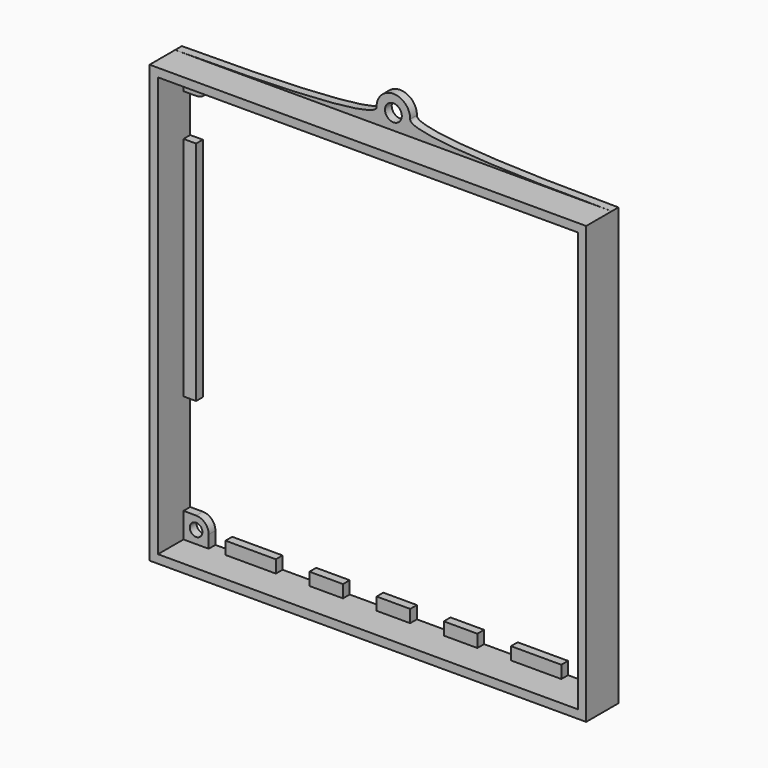
from build123d import *

# Parameters (mm, degrees)
F0_W     = 104
F0_H     = 104
F0_W_2   = 100
F0_H_2   = 100
F1_DEPTH = 7.6
F2_R     = 1.5
F2_R_2   = 2
F3_DEPTH = 2


with BuildPart() as f1:
    # F0 (on Front) → F1 (new body)
    with BuildSketch(Plane.XZ):
        Rectangle(F0_W, F0_H)
        Rectangle(F0_W_2, F0_H_2, mode=Mode.SUBTRACT)
    extrude(amount=F1_DEPTH)

    # F2 (on Front) → F3 (join)
    with BuildSketch(Plane.XZ):
        with BuildLine():
            Line((52, -52), (52, 52))
            add(Edge.make_bspline(
                [(52, 52), (30.992258, 52), (3.351394, 52.66514), (4, 55.733442)],
                knots=[0, 0, 0, 0, 48.144975, 48.144975, 48.144975, 48.144975], degree=3))
            ThreePointArc((4, 55.733442), (0, 59.733442), (-4, 55.733442))
            add(Edge.make_bspline(
                [(-52, 52), (-30.992258, 52), (-3.351394, 52.66514), (-4, 55.733442)],
                knots=[0, 0, 0, 0, 48.144975, 48.144975, 48.144975, 48.144975], degree=3))
            Line((-52, 52), (-52, -52))
            Line((-52, -52), (52, -52))
        make_face()
        with Locations((-47, -47)):
            Circle(F2_R, mode=Mode.SUBTRACT)
        with Locations((47, -47)):
            Circle(F2_R, mode=Mode.SUBTRACT)
        with BuildLine():
            ThreePointArc((44, 47), (44.87868, 44.87868), (47, 44))
            Line((47, 44), (50, 44))
            Line((50, 44), (50, 34))
            Line((50, 34), (47, 34))
            Line((47, 34), (47, 7))
            Line((47, 7), (50, 7))
            Line((50, 7), (50, -7))
            Line((50, -7), (47, -7))
            Line((47, -7), (47, -34))
            Line((47, -34), (50, -34))
            Line((50, -34), (50, -44))
            Line((50, -44), (47, -44))
            ThreePointArc((47, -44), (44.87868, -44.87868), (44, -47))
            Line((44, -47), (44, -50))
            Line((44, -50), (40, -50))
            Line((40, -50), (40, -47))
            Line((40, -47), (28, -47))
            Line((28, -47), (28, -50))
            Line((28, -50), (20, -50))
            Line((20, -50), (20, -47))
            Line((20, -47), (12, -47))
            Line((12, -47), (12, -50))
            Line((12, -50), (4, -50))
            Line((4, -50), (4, -47))
            Line((4, -47), (-4, -47))
            Line((-4, -47), (-4, -50))
            Line((-4, -50), (-12, -50))
            Line((-12, -50), (-12, -47))
            Line((-12, -47), (-20, -47))
            Line((-20, -47), (-20, -50))
            Line((-20, -50), (-28, -50))
            Line((-28, -50), (-28, -47))
            Line((-28, -47), (-40, -47))
            Line((-40, -47), (-40, -50))
            Line((-40, -50), (-44, -50))
            Line((-44, -50), (-44, -47))
            ThreePointArc((-44, -47), (-44.87868, -44.87868), (-47, -44))
            Line((-47, -44), (-50, -44))
            Line((-50, -44), (-50, -20))
            Line((-50, -20), (-47, -20))
            Line((-47, -20), (-47, 34))
            Line((-47, 34), (-50, 34))
            Line((-50, 34), (-50, 44))
            Line((-50, 44), (-47, 44))
            ThreePointArc((-47, 44), (-44.87868, 44.87868), (-44, 47))
            Line((-44, 47), (-44, 50))
            Line((-44, 50), (-29, 50))
            Line((-29, 50), (-29, 47))
            Line((-29, 47), (-16, 47))
            Line((-16, 47), (-16, 50))
            Line((-16, 50), (-4, 50))
            Line((-4, 50), (-4, 47))
            Line((-4, 47), (4, 47))
            Line((4, 47), (4, 50))
            Line((4, 50), (16, 50))
            Line((16, 50), (16, 47))
            Line((16, 47), (29, 47))
            Line((29, 47), (29, 50))
            Line((29, 50), (44, 50))
            Line((44, 50), (44, 47))
        make_face(mode=Mode.SUBTRACT)
        with Locations((-47, 47)):
            Circle(F2_R, mode=Mode.SUBTRACT)
        with Locations((0, 55.733442)):
            Circle(F2_R_2, mode=Mode.SUBTRACT)
        with Locations((47, 47)):
            Circle(F2_R, mode=Mode.SUBTRACT)
    extrude(amount=-F3_DEPTH)


solid = f1.part
